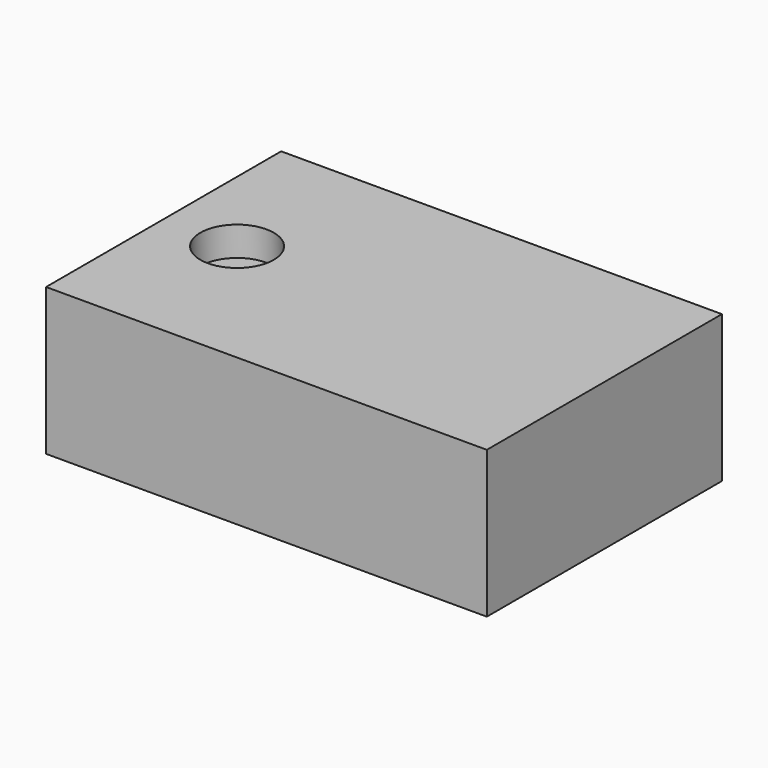
from build123d import *

# Parameters (mm, degrees)
F0_W     = 76.2
F0_H     = 25.4
F1_DEPTH = 25.4
F2_R     = 6.35
F3_DEPTH = 5.08


with BuildPart() as f1:
    # F0 (on Front) → F1 (new body, symmetric)
    with BuildSketch(Plane.XZ):
        with Locations((38.1, 12.7)):
            Rectangle(F0_W, F0_H)
    extrude(amount=F1_DEPTH, both=True)

    # F2 (on face) → F3 (cut)
    with BuildSketch(Plane.XY.offset(25.4)):
        with Locations((12.7, 0)):
            Circle(F2_R)
    extrude(amount=-F3_DEPTH, mode=Mode.SUBTRACT)


solid = f1.part
